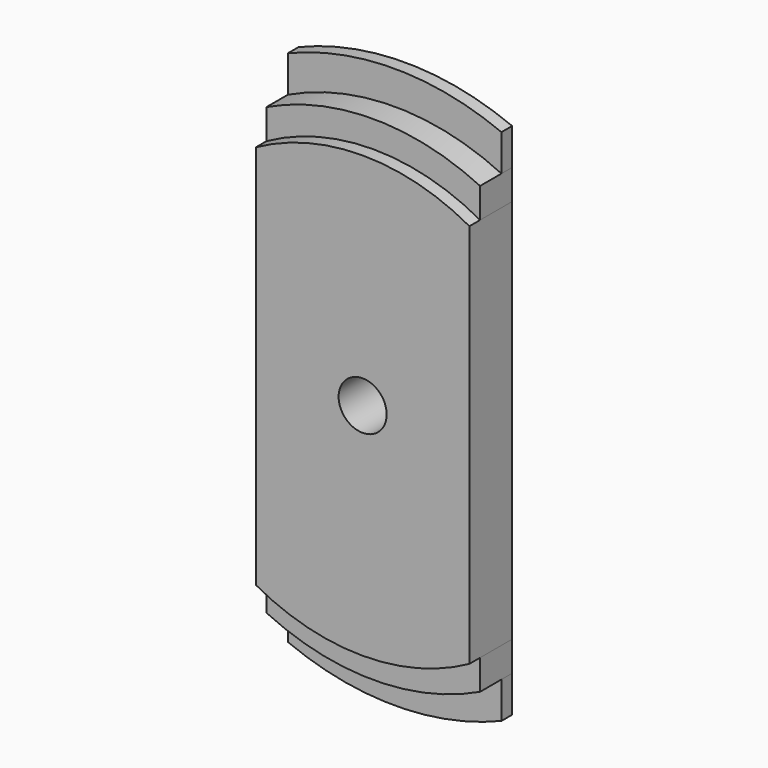
from build123d import *

# Parameters (mm, degrees)
F1_DEPTH = 5
F2_DEPTH = 15
F0_R     = 9
F3_DEPTH = 20


with BuildPart() as f1:
    # F0 (on Front) → F1 (new body)
    with BuildSketch(Plane.XZ):
        with BuildLine():
            Line((40, 83.4041365881), (40, 97.0824391947))
            ThreePointArc((40, 97.0824391947), (0, 105), (-40, 97.0824391947))
            Line((-40, 97.0824391947), (-40, 83.4041365881))
            ThreePointArc((-40, 83.4041365881), (0, 92.5), (40, 83.4041365881))
        make_face()
    extrude(amount=F1_DEPTH)


with BuildPart() as f1b:
    # F0 (on Front) → F1, piece 2 (new body)
    with BuildSketch(Plane.XZ):
        with BuildLine():
            ThreePointArc((-40, -97.0824391947), (0, -105), (40, -97.0824391947))
            Line((40, -97.0824391947), (40, -83.4041365881))
            ThreePointArc((40, -83.4041365881), (0, -92.5), (-40, -83.4041365881))
            Line((-40, -83.4041365881), (-40, -97.0824391947))
        make_face()
    extrude(amount=F1_DEPTH)


with BuildPart() as f2:
    # F0 (on Front) → F2 (new body)
    with BuildSketch(Plane.XZ):
        with BuildLine():
            Line((40, 72.1543484483), (40, 83.4041365881))
            ThreePointArc((40, 83.4041365881), (0, 92.5), (-40, 83.4041365881))
            Line((-40, 83.4041365881), (-40, 72.1543484483))
            ThreePointArc((-40, 72.1543484483), (0, 82.5), (40, 72.1543484483))
        make_face()
    extrude(amount=F2_DEPTH)


with BuildPart() as f2b:
    # F0 (on Front) → F2, piece 2 (new body)
    with BuildSketch(Plane.XZ):
        with BuildLine():
            ThreePointArc((-40, -83.4041365881), (0, -92.5), (40, -83.4041365881))
            Line((40, -83.4041365881), (40, -72.1543484483))
            ThreePointArc((40, -72.1543484483), (0, -82.5), (-40, -72.1543484483))
            Line((-40, -72.1543484483), (-40, -83.4041365881))
        make_face()
    extrude(amount=F2_DEPTH)


with BuildPart() as f3:
    # F0 (on Front) → F3 (new body)
    with BuildSketch(Plane.XZ):
        with BuildLine():
            Line((40, -72.1543484483), (40, 72.1543484483))
            ThreePointArc((40, 72.1543484483), (0, 82.5), (-40, 72.1543484483))
            Line((-40, 72.1543484483), (-40, -72.1543484483))
            ThreePointArc((-40, -72.1543484483), (0, -82.5), (40, -72.1543484483))
        make_face()
        Circle(F0_R, mode=Mode.SUBTRACT)
    extrude(amount=F3_DEPTH)


solid = Compound([f1.part, f1b.part, f2.part, f2b.part, f3.part])
